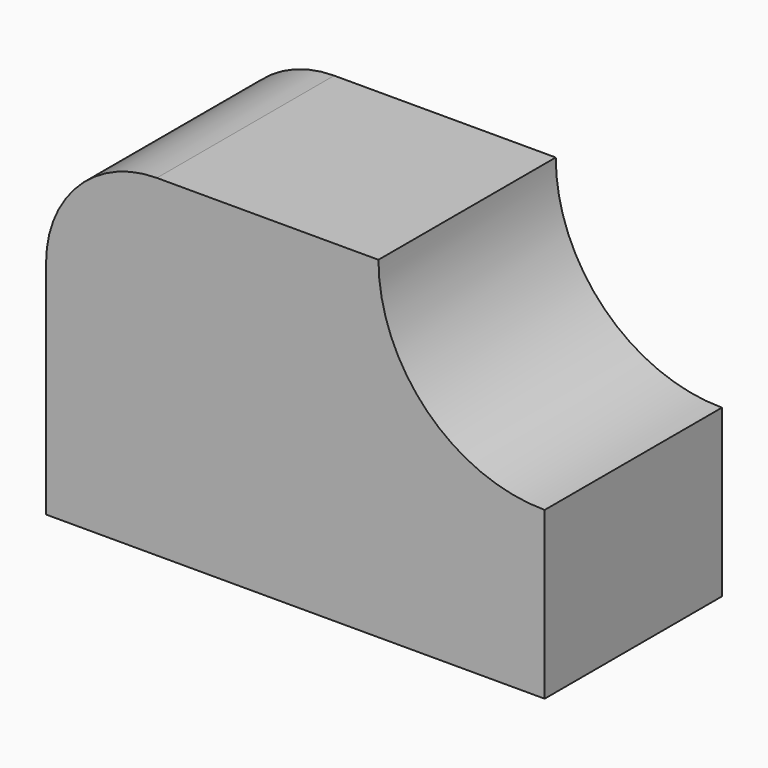
from build123d import *

# Parameters (mm, degrees)
F0_W     = 57.15
F0_H     = 38.1
F1_DEPTH = 25.4
F3_DEPTH = 25.4
F5_DEPTH = 25.4


with BuildPart() as f1:
    # F0 (on Front) → F1 (new body)
    with BuildSketch(Plane.XZ):
        with Locations((28.575, 19.05)):
            Rectangle(F0_W, F0_H)
    extrude(amount=-F1_DEPTH)

    # F2 (on Front) → F3 (cut)
    with BuildSketch(Plane.XZ):
        with BuildLine():
            Line((57.15, 38.1), (38.1, 38.1))
            ThreePointArc((38.1, 38.1), (43.679616, 24.629616), (57.15, 19.05))
            Line((57.15, 19.05), (57.15, 38.1))
        make_face()
    extrude(amount=-F3_DEPTH, mode=Mode.SUBTRACT)

    # F4 (on Front) → F5 (cut)
    with BuildSketch(Plane.XZ):
        with BuildLine():
            ThreePointArc((0, 25.4), (3.719744, 34.380256), (12.7, 38.1))
            Line((12.7, 38.1), (0, 38.1))
            Line((0, 38.1), (0, 25.4))
        make_face()
    extrude(amount=-F5_DEPTH, mode=Mode.SUBTRACT)


solid = f1.part
